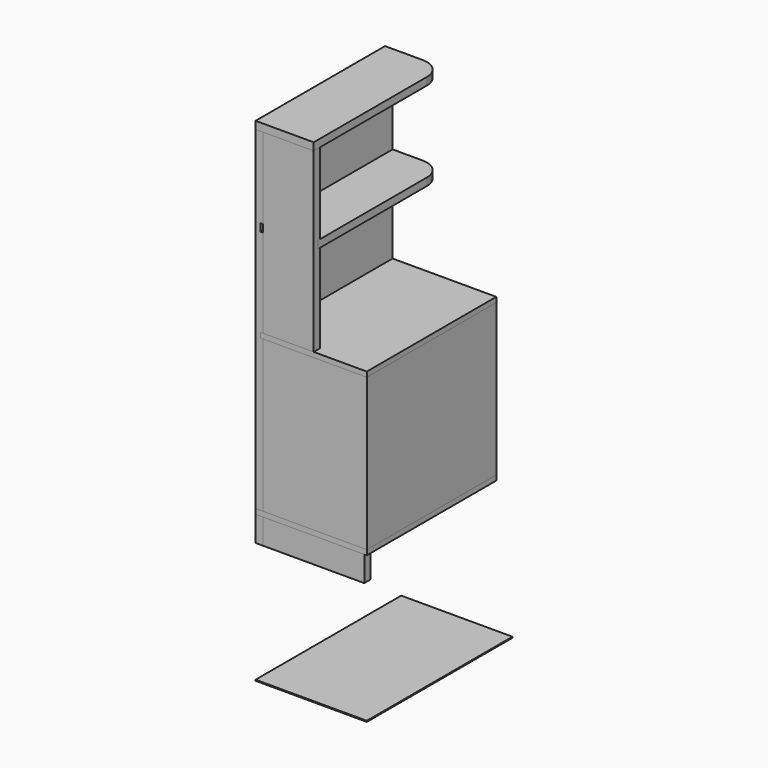
from build123d import *

# Parameters (mm, degrees)
F0_W      = 19.05
F0_H      = 63.5
F1_DEPTH  = 330.2
F2_W      = 19.05
F2_H      = 63.5
F3_DEPTH  = 254
F4_W      = 279.4
F4_H      = 406.4
F5_DEPTH  = 19.05
F6_W      = 19.05
F6_H      = 6.35
F7_DEPTH  = 406.4
F8_W      = 19.05
F8_H      = 6.35
F9_DEPTH  = 241.3
F10_W     = 241.3
F10_H     = 19.05
F11_DEPTH = 381
F14_W     = 12.7
F14_H     = 12.7
F15_DEPTH = 406.4
F16_W     = 19.05
F16_H     = 406.4
F17_DEPTH = 838.2
F19_W     = 6.35
F19_H     = 19.05
F20_DEPTH = 406.4
F21_W     = 127
F21_H     = 19.05
F22_DEPTH = 444.5
F23_W     = 6.35
F23_H     = 19.05
F24_DEPTH = 127
F25_W     = 133.35
F25_H     = 393.7
F26_DEPTH = 19.05
F27_W     = 146.05
F27_H     = 406.4
F28_DEPTH = 19.05
F29_W     = 279.4
F29_H     = 457.2
F30_DEPTH = 2.54
F32_DEPTH = 254


with BuildPart() as f1:
    # F0 (on Front) → F1 (new body)
    with BuildSketch(Plane.XZ):
        with Locations((-9.525, 336.55)):
            Rectangle(F0_W, F0_H)
    extrude(amount=-F1_DEPTH)


with BuildPart() as f3:
    # F2 (on face) → F3 (new body)
    with BuildSketch(Plane.YZ):
        with Locations((9.525, 336.55)):
            Rectangle(F2_W, F2_H)
    extrude(amount=F3_DEPTH)


with BuildPart() as f5:
    # F4 (on face) → F5 (new body)
    with BuildSketch(Plane.XY.offset(368.3)):
        with Locations((120.65, 203.2)):
            Rectangle(F4_W, F4_H)
    extrude(amount=F5_DEPTH)

    # F6 (on face) → F7 (cut, through all)
    with BuildSketch(Plane(origin=(0, 406.4, 0), x_dir=(-1, 0, 0), z_dir=(0, 1, 0))):
        with Locations((9.525, 384.175)):
            Rectangle(F6_W, F6_H)
        with Locations((-250.825, 384.175)):
            Rectangle(F6_W, F6_H)
    extrude(amount=-F7_DEPTH, mode=Mode.SUBTRACT)

    # F8 (on face) → F9 (cut, through all)
    with BuildSketch(Plane.YZ.offset(241.3)):
        with Locations((9.525, 384.175)):
            Rectangle(F8_W, F8_H)
    extrude(amount=-F9_DEPTH, mode=Mode.SUBTRACT)


with BuildPart() as f11:
    # F10 (on face) → F11 (new body)
    with BuildSketch(Plane.XY.offset(381)):
        Polygon((241.3, 0), (260.35, 0), (260.35, 406.4), (241.3, 406.4), (241.3, 19.05), align=None)
        with Locations((120.65, 9.525)):
            Rectangle(F10_W, F10_H)
    extrude(amount=F11_DEPTH)


with BuildPart() as f13_1:
    # F13: instance of F5
    add(f5.part.mirror(Plane(origin=(202.3284313725, 131.0465686275, 571.5), x_dir=(1, 0, 0), z_dir=(0, 0, 1))))

    # F14 (on face) → F15 (cut, through all)
    with BuildSketch(Plane(origin=(0, 406.4, 0), x_dir=(-1, 0, 0), z_dir=(0, 1, 0))):
        with Locations((12.7, 768.35)):
            Rectangle(F14_W, F14_H)
    extrude(amount=-F15_DEPTH, mode=Mode.SUBTRACT)


with BuildPart() as f17:
    # F16 (on face) → F17 (new body)
    with BuildSketch(Plane.XY.offset(381)):
        with Locations((-9.525, 203.2)):
            Rectangle(F16_W, F16_H)
    extrude(amount=F17_DEPTH)

    # F18: cut F13_1
    add(f13_1.part, mode=Mode.SUBTRACT)

    # F19 (on face) → F20 (cut, through all)
    with BuildSketch(Plane(origin=(0, 406.4, 0), x_dir=(-1, 0, 0), z_dir=(0, 1, 0))):
        with Locations((3.175, 1006.475)):
            Rectangle(F19_W, F19_H)
    extrude(amount=-F20_DEPTH, mode=Mode.SUBTRACT)


with BuildPart() as f22:
    # F21 (on face) → F22 (new body, through all)
    with BuildSketch(Plane.XY.offset(774.7)):
        with Locations((63.5, 9.525)):
            Rectangle(F21_W, F21_H)
    extrude(amount=F22_DEPTH)

    # F23 (on face) → F24 (cut, through all)
    with BuildSketch(Plane.YZ.offset(127)):
        with Locations((15.875, 1006.475)):
            Rectangle(F23_W, F23_H)
    extrude(amount=-F24_DEPTH, mode=Mode.SUBTRACT)


with BuildPart() as f26:
    # F25 (on face) → F26 (new body)
    with BuildSketch(Plane.XY.offset(996.95)):
        with Locations((60.325, 209.55)):
            Rectangle(F25_W, F25_H)
    extrude(amount=F26_DEPTH)


with BuildPart() as f28:
    # F27 (on face) → F28 (new body)
    with BuildSketch(Plane.XY.offset(1219.2)):
        with Locations((53.975, 203.2)):
            Rectangle(F27_W, F27_H)
    extrude(amount=F28_DEPTH)


with BuildPart() as f30:
    # F29 (on Top) → F30 (new body)
    with BuildSketch(Plane.XY):
        with Locations((120.65, 228.6)):
            Rectangle(F29_W, F29_H)
    extrude(amount=F30_DEPTH)


with BuildPart() as f32_tool:
    # F31 (on face) → F32 (new body)
    with BuildSketch(Plane.XY.offset(1238.25)):
        with BuildLine():
            Line((127, 355.6), (127, 406.4))
            Line((127, 406.4), (76.2, 406.4))
            ThreePointArc((76.2, 406.4), (112.1210244843, 391.5210244843), (127, 355.6))
        make_face()
    extrude(amount=-F32_DEPTH)


with BuildPart() as f26_1:
    add(f26.part)

    # F32: cut by f32_tool
    add(f32_tool.part, mode=Mode.SUBTRACT)


with BuildPart() as f28_1:
    add(f28.part)

    # F32: cut by f32_tool
    add(f32_tool.part, mode=Mode.SUBTRACT)


with BuildPart() as f22_1:
    add(f22.part)

    # F33: cut F26
    add(f26_1.part, mode=Mode.SUBTRACT)


solid = Compound([f1.part, f3.part, f5.part, f11.part, f13_1.part, f17.part, f30.part, f26_1.part, f28_1.part, f22_1.part])
